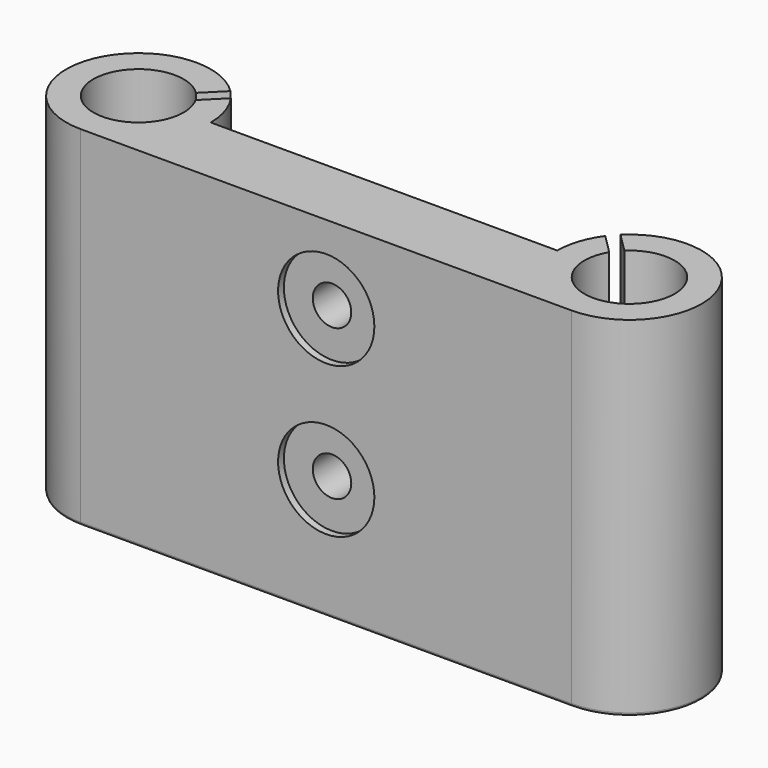
from build123d import *

# Parameters (mm, degrees)
CYLINDER010_R          = 3.2
CYLINDER010_DEPTH      = 40
CYLINDER011_R          = 3.2
CYLINDER011_DEPTH      = 40
CYLINDER012_R          = 8
CYLINDER012_DEPTH      = 1.2
CYLINDER013_R          = 8
CYLINDER013_DEPTH      = 1.2
BOX002_W               = 2
BOX002_H               = 10
BOX002_DEPTH           = 60
BOX002_PLACEMENT_ANGLE = 45
BOX003_W               = 2
BOX003_H               = 10
BOX003_DEPTH           = 60
BOX003_PLACEMENT_ANGLE = 45
CYLINDER006_R          = 2
CYLINDER006_DEPTH      = 20
CYLINDER007_R          = 2
CYLINDER007_DEPTH      = 20
CYLINDER008_R          = 2
CYLINDER008_DEPTH      = 20
CYLINDER009_R          = 2
CYLINDER009_DEPTH      = 20
CYLINDER005_R          = 12
CYLINDER005_DEPTH      = 4
CYLINDER004_R          = 5.5
CYLINDER004_DEPTH      = 20
CYLINDER002_R          = 7.5
CYLINDER002_DEPTH      = 58
CYLINDER_R             = 7.5
CYLINDER_DEPTH         = 58
BOX001_W               = 81.6
BOX001_H               = 33
BOX001_DEPTH           = 11
CHAMFER_1_SIZE2        = 35
CHAMFER_1_SIZE         = 15
CHAMFER_2_SIZE2        = 35
CHAMFER_2_SIZE         = 15
CYLINDER001_R          = 12
CYLINDER001_DEPTH      = 58
CYLINDER003_R          = 12
CYLINDER003_DEPTH      = 58
BOX_W                  = 81.6
BOX_H                  = 12
BOX_DEPTH              = 58
FILLET_R               = 0.5


with BuildPart() as cylinder:
    # Cylinder010 → Cylinder010 (new body)
    with BuildSketch(Plane(origin=(40.8, 20, 20), x_dir=(1, 0, 0), z_dir=(0, -1, 0))):
        Circle(CYLINDER010_R)
    extrude(amount=CYLINDER010_DEPTH)


with BuildPart() as cylinder001:
    # Cylinder011 → Cylinder011 (new body)
    with BuildSketch(Plane(origin=(40.8, 20, 45), x_dir=(1, 0, 0), z_dir=(0, -1, 0))):
        Circle(CYLINDER011_R)
    extrude(amount=CYLINDER011_DEPTH)


with BuildPart() as cylinder002:
    # Cylinder012 → Cylinder012 (new body)
    with BuildSketch(Plane(origin=(40.8, -10.8, 20), x_dir=(1, 0, 0), z_dir=(0, -1, 0))):
        Circle(CYLINDER012_R)
    extrude(amount=CYLINDER012_DEPTH)


with BuildPart() as cylinder003:
    # Cylinder013 → Cylinder013 (new body)
    with BuildSketch(Plane(origin=(40.8, -10.8, 45), x_dir=(1, 0, 0), z_dir=(0, -1, 0))):
        Circle(CYLINDER013_R)
    extrude(amount=CYLINDER013_DEPTH)


with BuildPart() as obj1:
    # Box002 → Box002 (new body)
    with BuildSketch(Plane.XY):
        with Locations((1, 5)):
            Rectangle(BOX002_W, BOX002_H)
    extrude(amount=BOX002_DEPTH)


with BuildPart() as obj1_1:
    # Box002 placement: moved
    add(obj1.part.moved(Location((77, 2, 11))).rotate(Axis((77, 2, 11), (0, 0, 1)), BOX002_PLACEMENT_ANGLE))


with BuildPart() as obj2:
    # Box003 → Box003 (new body)
    with BuildSketch(Plane.XY):
        with Locations((1, 5)):
            Rectangle(BOX003_W, BOX003_H)
    extrude(amount=BOX003_DEPTH)


with BuildPart() as obj2_1:
    # Box003 placement: moved
    add(obj2.part.moved(Location((3, 3, 11))).rotate(Axis((3, 3, 11), (0, 0, -1)), BOX003_PLACEMENT_ANGLE))


with BuildPart() as zylinder006:
    # Cylinder006 → Cylinder006 (new body)
    with BuildSketch(Plane(origin=(35.3, 6.5, 0), x_dir=(1, 0, 0), z_dir=(0, 0, 1))):
        Circle(CYLINDER006_R)
    extrude(amount=CYLINDER006_DEPTH)


with BuildPart() as zylinder007:
    # Cylinder007 → Cylinder007 (new body)
    with BuildSketch(Plane(origin=(35.3, 17.5, 0), x_dir=(1, 0, 0), z_dir=(0, 0, 1))):
        Circle(CYLINDER007_R)
    extrude(amount=CYLINDER007_DEPTH)


with BuildPart() as zylinder008:
    # Cylinder008 → Cylinder008 (new body)
    with BuildSketch(Plane(origin=(46.3, 6.5, 0), x_dir=(1, 0, 0), z_dir=(0, 0, 1))):
        Circle(CYLINDER008_R)
    extrude(amount=CYLINDER008_DEPTH)


with BuildPart() as zylinder009:
    # Cylinder009 → Cylinder009 (new body)
    with BuildSketch(Plane(origin=(46.3, 17.5, 0), x_dir=(1, 0, 0), z_dir=(0, 0, 1))):
        Circle(CYLINDER009_R)
    extrude(amount=CYLINDER009_DEPTH)


with BuildPart() as zylinder005:
    # Cylinder005 → Cylinder005 (new body)
    with BuildSketch(Plane(origin=(40.8, 12, 7), x_dir=(1, 0, 0), z_dir=(0, 0, 1))):
        Circle(CYLINDER005_R)
    extrude(amount=CYLINDER005_DEPTH)


with BuildPart() as zylinder004:
    # Cylinder004 → Cylinder004 (new body)
    with BuildSketch(Plane(origin=(40.8, 12, 0), x_dir=(1, 0, 0), z_dir=(0, 0, 1))):
        Circle(CYLINDER004_R)
    extrude(amount=CYLINDER004_DEPTH)


with BuildPart() as zylinder002:
    # Cylinder002 → Cylinder002 (new body)
    with BuildSketch(Plane(origin=(81.6, 0, 0), x_dir=(1, 0, 0), z_dir=(0, 0, 1))):
        Circle(CYLINDER002_R)
    extrude(amount=CYLINDER002_DEPTH)


with BuildPart() as zylinder:
    # Cylinder → Cylinder (new body)
    with BuildSketch(Plane.XY):
        Circle(CYLINDER_R)
    extrude(amount=CYLINDER_DEPTH)


with BuildPart() as chamfer_body:
    # Box001 → Box001 (new body)
    with BuildSketch(Plane(origin=(0, -12, 0), x_dir=(1, 0, 0), z_dir=(0, 0, 1))):
        with Locations((40.8, 16.5)):
            Rectangle(BOX001_W, BOX001_H)
    extrude(amount=BOX001_DEPTH)

    # Chamfer 1
    chamfer_1_edges = [chamfer_body.edges().sort_by_distance(p)[0] for p in [
        (81.6, 21, 5.5),
    ]]
    chamfer_1_side = chamfer_body.faces().sort_by_distance((81.6, 4.5, 5.5))[0]
    chamfer(chamfer_1_edges, length=CHAMFER_1_SIZE, length2=CHAMFER_1_SIZE2, reference=chamfer_1_side)

    # Chamfer 2
    chamfer_2_edges = [chamfer_body.edges().sort_by_distance(p)[0] for p in [
        (0, 21, 5.5),
    ]]
    chamfer_2_side = chamfer_body.faces().sort_by_distance((0, 4.5, 5.5))[0]
    chamfer(chamfer_2_edges, length=CHAMFER_2_SIZE, length2=CHAMFER_2_SIZE2, reference=chamfer_2_side)


with BuildPart() as zylinder001:
    # Cylinder001 → Cylinder001 (new body)
    with BuildSketch(Plane.XY):
        Circle(CYLINDER001_R)
    extrude(amount=CYLINDER001_DEPTH)


with BuildPart() as zylinder003:
    # Cylinder003 → Cylinder003 (new body)
    with BuildSketch(Plane(origin=(81.6, 0, 0), x_dir=(1, 0, 0), z_dir=(0, 0, 1))):
        Circle(CYLINDER003_R)
    extrude(amount=CYLINDER003_DEPTH)


with BuildPart() as fillet_body:
    # Box → Box (new body)
    with BuildSketch(Plane(origin=(0, -12, 0), x_dir=(1, 0, 0), z_dir=(0, 0, 1))):
        with Locations((40.8, 6)):
            Rectangle(BOX_W, BOX_H)
    extrude(amount=BOX_DEPTH)

    # Fusion: union Chamfer body, Zylinder001, Zylinder003
    add(chamfer_body.part)
    add(zylinder001.part)
    add(zylinder003.part)

    # Cut: cut Zylinder
    add(zylinder.part, mode=Mode.SUBTRACT)

    # Cut001: cut Zylinder002
    add(zylinder002.part, mode=Mode.SUBTRACT)

    # Cut002: cut Zylinder004
    add(zylinder004.part, mode=Mode.SUBTRACT)

    # Cut003: cut Zylinder005
    add(zylinder005.part, mode=Mode.SUBTRACT)

    # Cut004: cut Zylinder009
    add(zylinder009.part, mode=Mode.SUBTRACT)

    # Cut005: cut Zylinder008
    add(zylinder008.part, mode=Mode.SUBTRACT)

    # Cut006: cut Zylinder007
    add(zylinder007.part, mode=Mode.SUBTRACT)

    # Cut007: cut Zylinder006
    add(zylinder006.part, mode=Mode.SUBTRACT)

    # Cut008: cut obj2
    add(obj2_1.part, mode=Mode.SUBTRACT)

    # Cut009: cut obj1
    add(obj1_1.part, mode=Mode.SUBTRACT)

    # Cut010: cut Cylinder003
    add(cylinder003.part, mode=Mode.SUBTRACT)

    # Cut011: cut Cylinder002
    add(cylinder002.part, mode=Mode.SUBTRACT)

    # Cut012: cut Cylinder001
    add(cylinder001.part, mode=Mode.SUBTRACT)

    # Cut013: cut Cylinder
    add(cylinder.part, mode=Mode.SUBTRACT)

    # Fillet
    fillet_edges = [fillet_body.edges().sort_by_distance(p)[0] for p in [
        (-11.296167, 4.049272, 0),
        (40.8, -12, 0),
        (21.311771, 15.133616, 0),
        (40.8, 21, 0),
        (60.288229, 15.133616, 0),
        (86.724329, 10.850864, 0),
        (90.085281, -8.485281, 0),
    ]]
    fillet(fillet_edges, radius=FILLET_R)


solid = fillet_body.part
